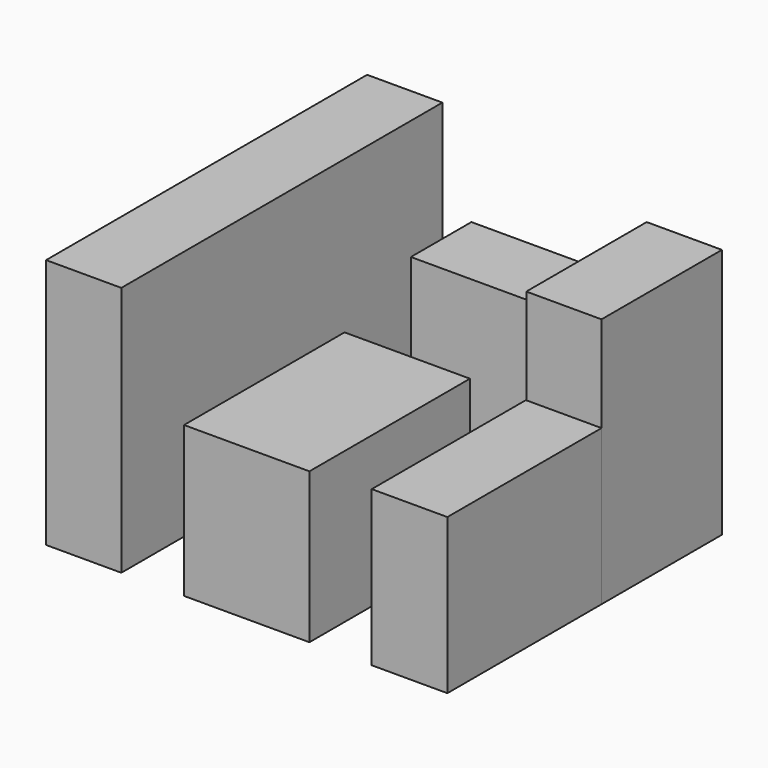
from build123d import *

# Parameters (mm, degrees)
F0_W      = 457.2
F0_H      = 914.4
F1_DEPTH  = 1524
F2_W      = 457.2
F2_H      = 1524
F3_DEPTH  = 1524
F4_W      = 459.74
F4_H      = 1170.94
F5_DEPTH  = 942.34
F6_W      = 762
F6_H      = 1219.2
F7_DEPTH  = 914.4
F8_W      = 1170.94
F8_H      = 459.74
F9_DEPTH  = 942.34
F10_W     = 457.2
F10_H     = 914.4
F11_DEPTH = 1524


with BuildPart() as f1:
    # F0 (on Top) → F1 (new body)
    with BuildSketch(Plane.XY):
        with Locations((-2209.8, 457.2)):
            Rectangle(F0_W, F0_H)
    extrude(amount=F1_DEPTH)

    # F2 (on Top) → F3 (join)
    with BuildSketch(Plane.XY):
        with Locations((-2209.8, 1676.4)):
            Rectangle(F2_W, F2_H)
    extrude(amount=F3_DEPTH)


with BuildPart() as f5:
    # F4 (on Top) → F5 (new body)
    with BuildSketch(Plane.XY):
        with Locations((-229.87, 585.47)):
            Rectangle(F4_W, F4_H)
    extrude(amount=F5_DEPTH)


with BuildPart() as f7:
    # F6 (on Top) → F7 (new body)
    with BuildSketch(Plane.XY):
        with Locations((-1219.2, 609.6)):
            Rectangle(F6_W, F6_H)
    extrude(amount=F7_DEPTH)


with BuildPart() as f9:
    # F8 (on Top) → F9 (new body)
    with BuildSketch(Plane.XY):
        with Locations((-1219.2, 2208.53)):
            Rectangle(F8_W, F8_H)
    extrude(amount=F9_DEPTH)


with BuildPart() as f11:
    # F10 (on Top) → F11 (new body)
    with BuildSketch(Plane.XY):
        with Locations((-228.6, 1628.14)):
            Rectangle(F10_W, F10_H)
    extrude(amount=F11_DEPTH)


solid = Compound([f1.part, f5.part, f7.part, f9.part, f11.part])
